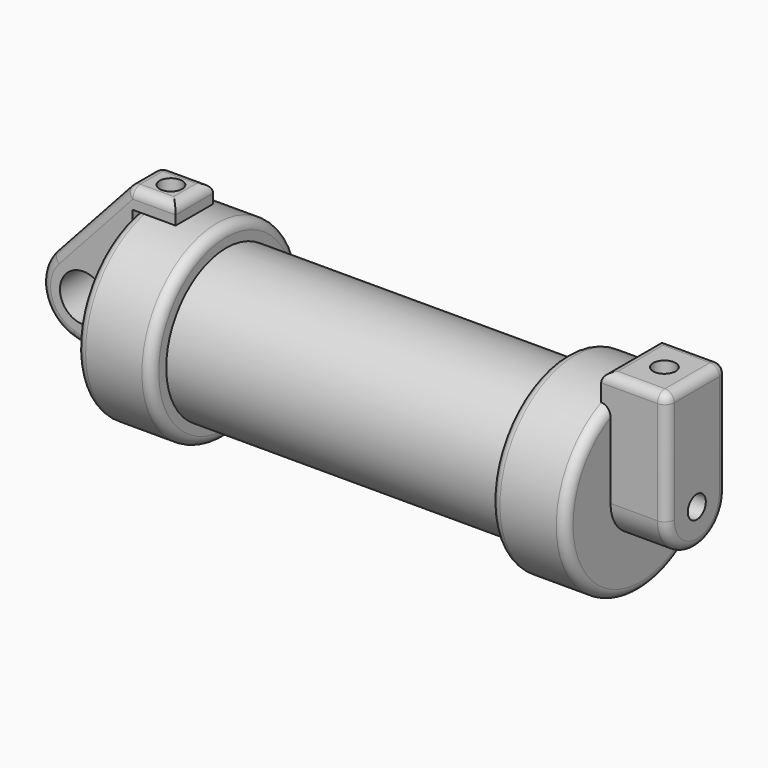
from build123d import *

# Parameters (mm, degrees)
F0_W          = 5.842
F0_H          = 12.7
F0_R          = 3.175
F2_DEPTH      = 3.175
F3_R          = 1.524
F4_DEPTH      = 7.62
F4_DEPTH_BACK = 1.27
F5_DEPTH      = 56.134
F6_R          = 1.524
F7_DEPTH      = 17.78
F8_DEPTH      = 10.414
F9_R          = 1.27
F10_R         = 1.27
F11_R         = 1.27


with BuildPart() as f1:
    # F0 (on Front) → F1 (revolve)
    with BuildSketch(Plane.XZ):
        Polygon((5.842, 12.7), (5.842, 0), (66.294, 0), (66.294, 12.7), (56.134, 12.7), (56.134, 10.16), (10.16, 10.16), (10.16, 12.7), align=None)
        with Locations((2.921, 6.35)):
            Rectangle(F0_W, F0_H)
    revolve(axis=Axis((33.147, 0, 0), (-1, 0, 0)))

    # F3 (on face) → F4 (join, two sides)
    with BuildSketch(Plane.YZ.offset(66.294)) as f4_sk:
        with BuildLine():
            ThreePointArc((-5.08, 0), (0, 5.08), (5.08, 0))
            Line((5.08, 0), (5.08, 11.6397422652))
            ThreePointArc((5.08, 11.6397422652), (0, 12.7), (-5.08, 11.6397422652))
            Line((-5.08, 11.6397422652), (-5.08, 0))
        make_face()
        with BuildLine():
            ThreePointArc((-5.08, 11.6397422652), (0, 12.7), (5.08, 11.6397422652))
            Line((5.08, 11.6397422652), (5.08, 15.24))
            Line((5.08, 15.24), (-5.08, 15.24))
            Line((-5.08, 15.24), (-5.08, 11.6397422652))
        make_face()
        with BuildLine():
            ThreePointArc((-5.08, 0), (0, -5.08), (5.08, 0))
            ThreePointArc((5.08, 0), (0, 5.08), (-5.08, 0))
        make_face()
        Circle(F3_R, mode=Mode.SUBTRACT)
    extrude(amount=F4_DEPTH)
    extrude(f4_sk.sketch, amount=-F4_DEPTH_BACK)

    # F5 (cut, through all): a face of the model
    f5_faces = [f1.faces().sort_by_distance(p)[0] for p in [
        (66.294, 0, 0),
    ]]
    extrude(f5_faces, amount=-F5_DEPTH, mode=Mode.SUBTRACT)

    # F6 (on face) → F8 (cut)
    with BuildSketch(Plane.XY.offset(15.24)):
        with Locations((69.5258975029, 0)):
            Circle(F6_R)
    extrude(amount=-F8_DEPTH, mode=Mode.SUBTRACT)

    # F9
    f9_edges = [f1.edges().sort_by_distance(p)[0] for p in [
        (10.16, 0, -12.7),
        (0, 0, -12.7),
        (56.134, 0, -12.7),
        (66.294, 0, -12.7),
    ]]
    fillet(f9_edges, radius=F9_R)

    # F11
    f11_edges = [f1.edges().sort_by_distance(p)[0] for p in [
        (65.024, 0, 15.24),
        (69.469, -5.08, 15.24),
        (73.914, 0, 15.24),
        (69.469, 5.08, 15.24),
        (73.914, -5.08, 7.62),
        (73.914, 5.08, 7.62),
    ]]
    fillet(f11_edges, radius=F11_R)


with BuildPart() as f2:
    # F0 (on Front) → F2 (new body, symmetric)
    with BuildSketch(Plane.XZ):
        with BuildLine():
            Line((-0.9398, 0), (0, 0))
            Line((0, 0), (0, 12.7))
            Line((0, 12.7), (5.842, 12.7))
            Line((5.842, 12.7), (5.842, 15.24))
            Line((5.842, 15.24), (-0.508, 15.24))
            Line((-0.508, 15.24), (-10.8806298187, 3.8475430269))
            ThreePointArc((-10.8806298187, 3.8475430269), (-4.5919612295, 5.3297205562), (-0.9398, 0))
        make_face()
        with BuildLine():
            Line((5.842, 0), (0, 0))
            Line((0, 0), (-0.9398, 0))
            ThreePointArc((-0.9398, 0), (-3.1957909266, -4.5493385486), (-8.1826630726, -5.5069827884))
            Line((-8.1826630726, -5.5069827884), (5.842, -9.398))
            Line((5.842, -9.398), (5.842, 0))
        make_face()
        with BuildLine():
            ThreePointArc((-8.1826630726, -5.5069827884), (-3.1957909266, -4.5493385486), (-0.9398, 0))
            ThreePointArc((-0.9398, 0), (-4.5919612295, 5.3297205562), (-10.8806298187, 3.8475430269))
            ThreePointArc((-10.8806298187, 3.8475430269), (-12.1459778134, -1.5837270034), (-8.1826630726, -5.5069827884))
        make_face()
        with Locations((-6.6548, 0)):
            Circle(F0_R, mode=Mode.SUBTRACT)
    extrude(amount=F2_DEPTH, both=True)

    # F6 (on face) → F7 (cut)
    with BuildSketch(Plane.XY.offset(15.24)):
        with Locations((2.667, 0)):
            Circle(F6_R)
    extrude(amount=-F7_DEPTH, mode=Mode.SUBTRACT)

    # F10
    f10_edges = [f2.edges().sort_by_distance(p)[0] for p in [
        (5.842, 0, 15.24),
        (2.667, 3.175, 15.24),
        (2.667, -3.175, 15.24),
        (-5.694315, -3.175, 9.543772),
        (-5.694315, 3.175, 9.543772),
        (-0.508, 0, 15.24),
    ]]
    fillet(f10_edges, radius=F10_R)


solid = Compound([f1.part, f2.part])
